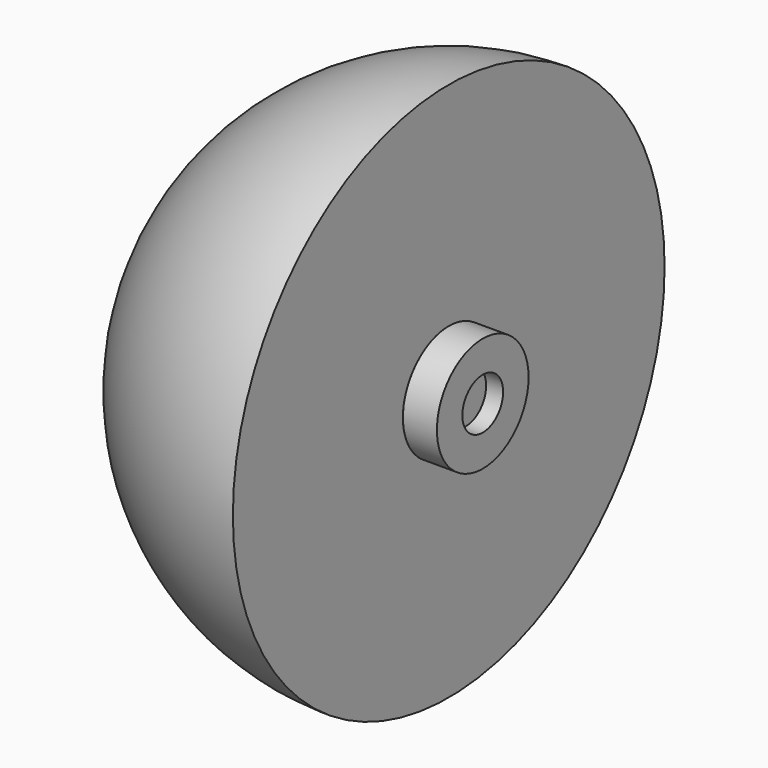
from build123d import *

# Parameters (mm, degrees)
F0_R     = 16.85
F1_DEPTH = 10
F2_R     = 7.5
F3_DEPTH = 5
F5_ANGLE = 180


with BuildPart() as f1:
    # F0 (on Right) → F1 (new body)
    with BuildSketch(Plane.YZ):
        Circle(F0_R)
    extrude(amount=F1_DEPTH)

    # F2 (on face) → F3 (cut)
    with BuildSketch(Plane.YZ.offset(10)):
        Circle(F2_R)
    extrude(amount=-F3_DEPTH, mode=Mode.SUBTRACT)


with BuildPart() as f5:
    # F4 (on face) → F5 (revolve)
    with BuildSketch(Plane(origin=(0, 0, 0), x_dir=(0, -1, 0), z_dir=(-1, 0, 0))):
        with BuildLine():
            Line((16.85, 0), (79.35, 0))
            ThreePointArc((79.35, 0), (0, 79.35), (-79.35, 0))
            Line((-79.35, 0), (-16.85, 0))
            ThreePointArc((-16.85, 0), (0, 16.85), (16.85, 0))
        make_face()
    revolve(axis=Axis((0, 0, 0), (0, -1, 0)), revolution_arc=F5_ANGLE)


solid = Compound([f1.part, f5.part])
